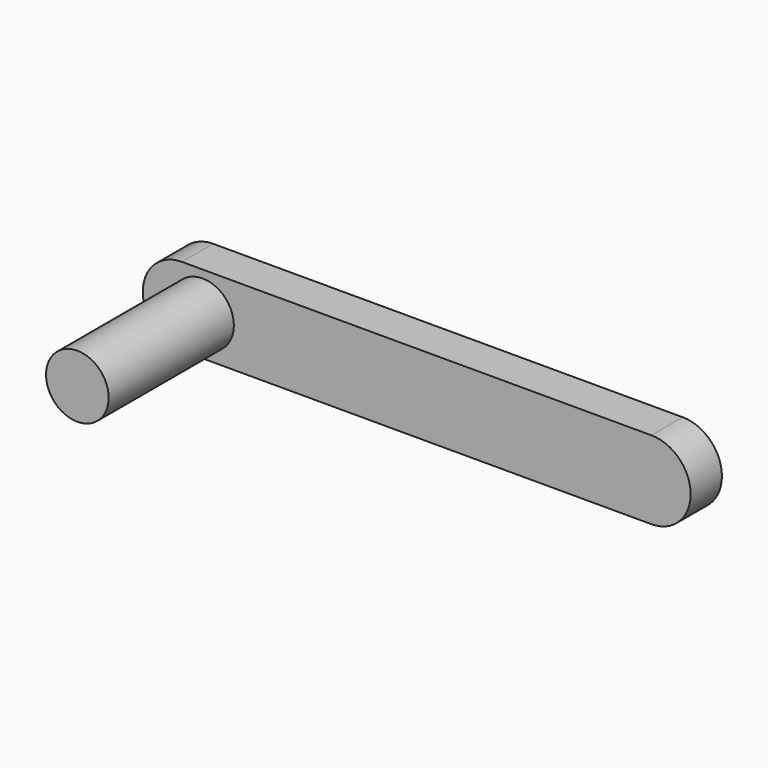
from build123d import *

# Parameters (mm, degrees)
F1_DEPTH = 3.175
F2_R     = 2.54
F3_DEPTH = 12.7
F4_R     = 1.1938
F5_DEPTH = 2.54


with BuildPart() as f1:
    # F0 (on Front) → F1 (new body)
    with BuildSketch(Plane.XZ):
        with BuildLine():
            Line((41.275, 3.175), (3.175, 3.175))
            ThreePointArc((3.175, 3.175), (0, 0), (3.175, -3.175))
            Line((3.175, -3.175), (41.275, -3.175))
            ThreePointArc((41.275, -3.175), (44.45, 0), (41.275, 3.175))
        make_face()
    extrude(amount=F1_DEPTH)

    # F2 (on face) → F3 (join)
    with BuildSketch(Plane.XZ.offset(3.175)):
        with Locations((4.8514, 0)):
            Circle(F2_R)
    extrude(amount=F3_DEPTH)

    # F4 (on face) → F5 (join)
    with BuildSketch(Plane(origin=(0, 0, 0), x_dir=(-1, 0, 0), z_dir=(0, 1, 0))):
        with Locations((-16.51, 0)):
            Circle(F4_R)
        with Locations((-33.02, 0)):
            Circle(F4_R)
    extrude(amount=F5_DEPTH)


solid = f1.part
